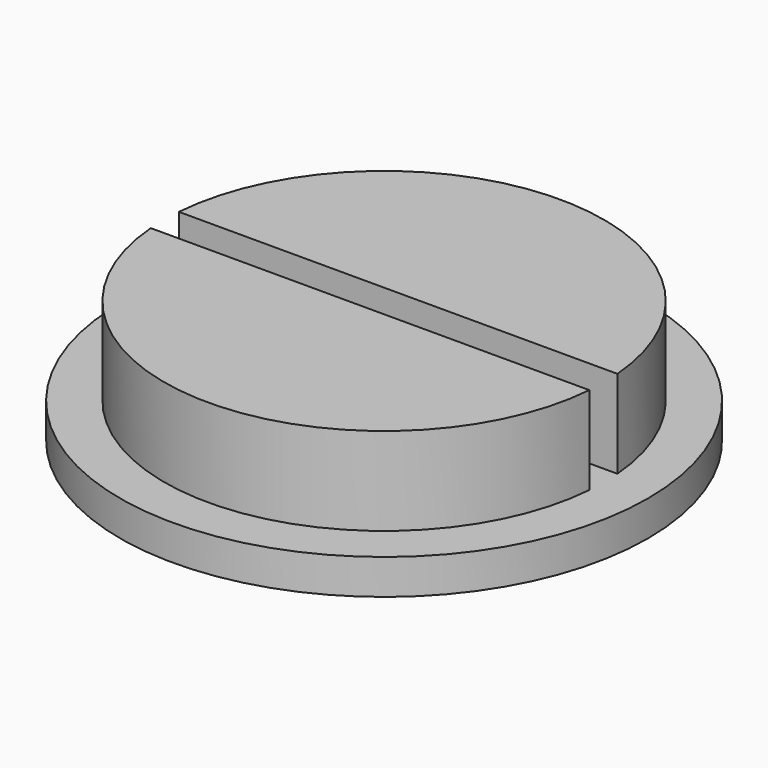
from build123d import *

# Parameters (mm, degrees)
F0_R     = 19.05
F1_DEPTH = 2.54
F3_DEPTH = 6.35


with BuildPart() as f1:
    # F0 (on Top) → F1 (new body)
    with BuildSketch(Plane.XY):
        Circle(F0_R)
    extrude(amount=F1_DEPTH)

    # F2 (on face) → F3 (join)
    with BuildSketch(Plane.XY.offset(2.54)):
        with BuildLine():
            Line((15.824118, -1.27), (-15.824118, -1.27))
            ThreePointArc((-15.824118, -1.27), (0, -15.875), (15.824118, -1.27))
        make_face()
        with BuildLine():
            Line((-15.824118, 1.27), (15.824118, 1.27))
            ThreePointArc((15.824118, 1.27), (0, 15.875), (-15.824118, 1.27))
        make_face()
    extrude(amount=F3_DEPTH)


solid = f1.part
